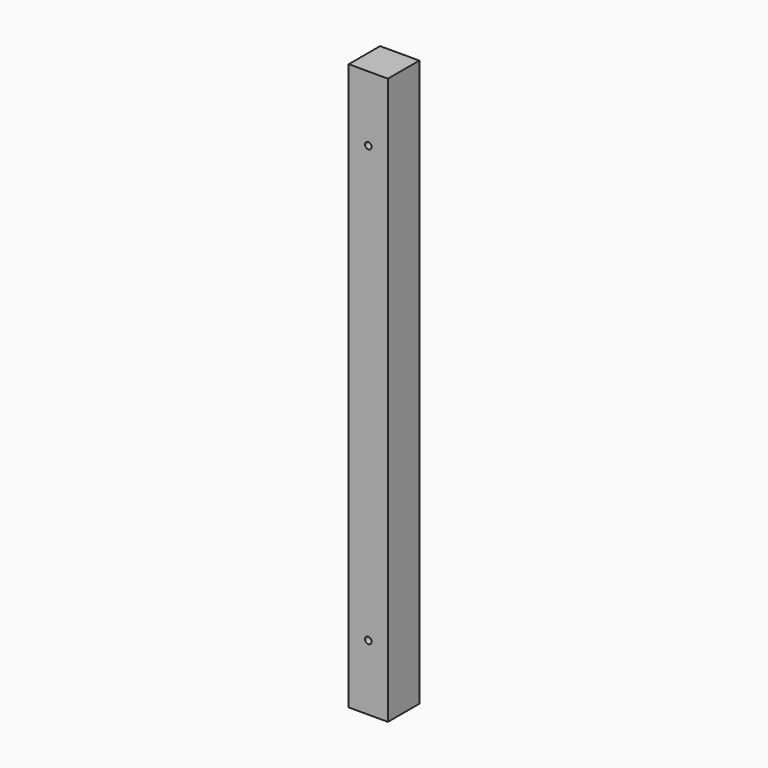
from build123d import *

# Parameters (mm, degrees)
F0_W     = 18
F0_H     = 18
F1_DEPTH = 260
F2_R     = 1.5
F3_DEPTH = 18.001


with BuildPart() as f1:
    # F0 (on Top) → F1 (new body)
    with BuildSketch(Plane.XY):
        with Locations((-9, -9)):
            Rectangle(F0_W, F0_H)
    extrude(amount=F1_DEPTH)

    # F2 (on face) → F3 (cut, through all)
    with BuildSketch(Plane.XZ.offset(18)):
        with Locations((-9, 230)):
            Circle(F2_R)
        with Locations((-9, 30)):
            Circle(F2_R)
    extrude(amount=-F3_DEPTH, mode=Mode.SUBTRACT)


solid = f1.part
